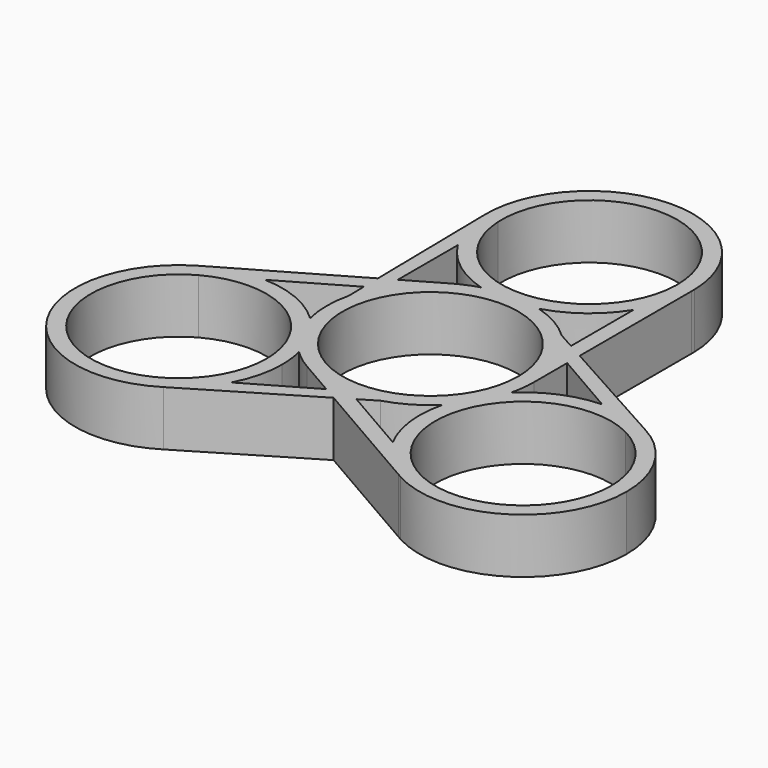
from build123d import *

# Parameters (mm, degrees)
F0_R     = 11.2
F1_DEPTH = 7


with BuildPart() as f1:
    # F0 (on Top) → F1 (new body)
    with BuildSketch(Plane.XY):
        with BuildLine():
            ThreePointArc((11.1960937773, 18.3612549308), (12.6514347683, 21.5874202803), (13.1972607258, 25.0843095102))
            Line((13.1972607258, 25.0843095102), (13.1972016792, 25.6249998472))
            ThreePointArc((13.1972016792, 25.6249998472), (-0.3668592076, 38.5481145369), (-13.1919155694, 24.8913004743))
            ThreePointArc((-13.1919155694, 24.8913004743), (-12.6206771495, 21.4855903841), (-11.1856658992, 18.3445846116))
            Line((-11.1856658992, 18.3445846116), (-11.1856658992, 24.7867521761))
            ThreePointArc((-11.1856658992, 24.7867521761), (-0.2833213093, 36.5496293654), (11.2, 25.353213464))
            ThreePointArc((11.2, 25.353213464), (11.1990234017, 25.2053119859), (11.1960937773, 25.0574363006))
            Line((11.1960937773, 25.0574363006), (11.1960937773, 18.3612549308))
        make_face()
        with BuildLine():
            ThreePointArc((-11.1856658992, 18.3445846116), (-12.6206771495, 21.4855903841), (-13.1919155694, 24.8913004743))
            Line((-13.1919155694, 24.8913004743), (-12.91669885, 7.7836678209))
            Line((-12.91669885, 7.7836678209), (-11.1856658992, 8.7833322288))
            Line((-11.1856658992, 8.7833322288), (-11.1856658992, 18.3445846116))
        make_face()
        with BuildLine():
            Line((11.1960937773, 8.4082804197), (13.1992034925, 7.2943554266))
            Line((13.1992034925, 7.2943554266), (13.1972607258, 25.0843095102))
            ThreePointArc((13.1972607258, 25.0843095102), (12.6514347683, 21.5874202803), (11.1960937773, 18.3612549308))
            Line((11.1960937773, 18.3612549308), (11.1960937773, 8.4082804197))
        make_face()
        with BuildLine():
            ThreePointArc((-3.6801687137, 12.676606732), (0, 12.153213464), (3.6801687137, 12.676606732))
            ThreePointArc((3.6801687137, 12.676606732), (0, 13.2), (-3.6801687137, 12.676606732))
        make_face()
        with BuildLine():
            ThreePointArc((-3.6801687137, 12.676606732), (0, 13.2), (3.6801687137, 12.676606732))
            ThreePointArc((3.6801687137, 12.676606732), (7.9627007172, 14.8253743083), (11.1960937773, 18.3612549308))
            Line((11.1960937773, 18.3612549308), (11.1960937773, 25.0574363006))
            ThreePointArc((11.1960937773, 25.0574363006), (0.1354424563, 14.154032452), (-11.1856658992, 24.7867521761))
            Line((-11.1856658992, 24.7867521761), (-11.1856658992, 18.3445846116))
            ThreePointArc((-11.1856658992, 18.3445846116), (-7.9548571952, 14.8194464738), (-3.6801687137, 12.676606732))
        make_face()
        with BuildLine():
            ThreePointArc((11.1960937773, 6.9919585332), (11.4364479512, 6.5914837677), (11.6624835815, 6.1827564008))
            Line((11.6624835815, 6.1827564008), (13.1994217896, 5.2954047126))
            Line((13.1994217896, 5.2954047126), (13.1992034925, 7.2943554266))
            Line((13.1992034925, 7.2943554266), (11.1960937773, 8.4082804197))
            Line((11.1960937773, 8.4082804197), (11.1960937773, 6.9919585332))
        make_face()
        with BuildLine():
            Line((13.1992034925, 7.2943554266), (13.1994217896, 5.2954047126))
            Line((13.1994217896, 5.2954047126), (21.4797092452, 0.5147785212))
            ThreePointArc((21.4797092452, 0.5147785212), (24.9174056627, 0.1870318324), (28.1524563287, -1.0211162295))
            Line((28.1524563287, -1.0211162295), (13.1992034925, 7.2943554266))
        make_face()
        with BuildLine():
            ThreePointArc((11.6624835815, 6.1827564008), (12.8098552544, 3.1855310958), (13.2, 0))
            Line((13.2000000787, 0), (13.1994217896, 5.2954047126))
            Line((13.1994217896, 5.2954047126), (11.6624835815, 6.1827564008))
        make_face()
        with BuildLine():
            ThreePointArc((-11.1856658992, 7.0086288524), (-9.1636784807, 9.5008945212), (-6.6, 11.43153533))
            Line((-6.6000000394, 11.4315353981), (-11.1856658992, 8.7833322288))
            Line((-11.1856658992, 8.7833322288), (-11.1856658992, 7.0086288524))
        make_face()
        with BuildLine():
            Line((-11.1856658992, 8.7833322288), (-12.91669885, 7.7836678209))
            Line((-12.91669885, 7.7836678209), (-12.8798313342, 5.4919614244))
            Line((-12.8798313342, 5.4919614244), (-11.6532606006, 6.2001223677))
            ThreePointArc((-11.6532606006, 6.2001223677), (-11.4266163671, 6.6085125709), (-11.1856658992, 7.0086288524))
            Line((-11.1856658992, 7.0086288524), (-11.1856658992, 8.7833322288))
        make_face()
        with BuildLine():
            Line((-12.8798313342, 5.4919614244), (-12.91669885, 7.7836678209))
            Line((-12.91669885, 7.7836678209), (-28.3222796351, -1.1129917062))
            ThreePointArc((-28.3222796351, -1.1129917062), (-25.020971749, 0.1627537636), (-21.4993601041, 0.5154741689))
            Line((-21.4993601041, 0.5154741689), (-12.8798313342, 5.4919614244))
        make_face()
        with BuildLine():
            ThreePointArc((-28.7905016793, -1.3833880105), (-33.2002168531, -19.5917666618), (-14.9605407593, -23.8701842448))
            ThreePointArc((-14.9605407593, -23.8701842448), (-12.2967285132, -21.6726222165), (-10.2940433459, -18.8593631328))
            Line((-10.2940433459, -18.8593631328), (-15.8731241122, -22.0804469151))
            ThreePointArc((-15.8731241122, -22.0804469151), (-31.5875809573, -18.393493846), (-27.2984232787, -2.832616516))
            Line((-27.2984232787, -2.832616516), (-21.4993601041, 0.5154741689))
            ThreePointArc((-21.4993601041, 0.5154741689), (-25.020971749, 0.1627537636), (-28.3222796351, -1.1129917062))
            Line((-28.3222796351, -1.1129917062), (-28.7905016793, -1.3833880105))
        make_face()
        with BuildLine():
            ThreePointArc((-8.7565269274, -12.676606732), (-8.8522873228, -11.0895010695), (-9.1381791068, -9.5254229623))
            ThreePointArc((-9.1381791068, -9.5254229623), (-11.43153533, -6.6), (-12.8183478206, -3.1511837697))
            ThreePointArc((-12.8183478206, -3.1511837697), (-16.8205011302, -0.5167860504), (-21.4993601041, 0.5154741689))
            Line((-21.4993601041, 0.5154741689), (-27.2984232787, -2.832616516))
            ThreePointArc((-27.2984232787, -2.832616516), (-16.2289287892, -3.0519187076), (-10.7565269274, -12.676606732))
            ThreePointArc((-10.7565269274, -12.676606732), (-12.1184856709, -18.0294512314), (-15.8731241122, -22.0804469151))
            Line((-15.8731241122, -22.0804469151), (-10.2940433459, -18.8593631328))
            ThreePointArc((-10.2940433459, -18.8593631328), (-9.1466716731, -15.8621378278), (-8.7565269274, -12.676606732))
        make_face()
        with BuildLine():
            Line((-2.0137558904, -14.0787369414), (-0.4768176823, -13.1913852532))
            ThreePointArc((-0.4768176823, -13.1913852532), (-3.6461767737, -12.686425617), (-6.6, -11.43153533))
            Line((-6.6000000394, -11.4315353981), (-2.0137558904, -14.0787369414))
        make_face()
        with BuildLine():
            ThreePointArc((12.8183478206, -3.1511837697), (13.1042396046, -1.5871056626), (13.2, 0))
            ThreePointArc((13.2, 0), (12.8098552544, 3.1855310958), (11.6624835815, 6.1827564008))
            ThreePointArc((11.6624835815, 6.1827564008), (11.4364479512, 6.5914837677), (11.1960937773, 6.9919585332))
            ThreePointArc((11.1960937773, 6.9919585332), (10.2157365995, 8.3593495997), (9.0694054488, 9.590927213))
            ThreePointArc((9.0694054488, 9.590927213), (6.5588310586, 11.4552055916), (3.6801687137, 12.676606732))
            ThreePointArc((3.6801687137, 12.676606732), (0, 12.153213464), (-3.6801687137, 12.676606732))
            ThreePointArc((-3.6801687137, 12.676606732), (-5.1776459801, 12.1421572262), (-6.6, 11.43153533))
            ThreePointArc((-6.6, 11.43153533), (-9.1636784807, 9.5008945212), (-11.1856658992, 7.0086288524))
            ThreePointArc((-11.1856658992, 7.0086288524), (-11.4266163671, 6.6085125709), (-11.6532606006, 6.2001223677))
            ThreePointArc((-11.6532606006, 6.2001223677), (-12.3472774122, 4.6674126137), (-12.8406893367, 3.0588719094))
            ThreePointArc((-12.8406893367, 3.0588719094), (-13.1999145772, -0.0474884799), (-12.8183478206, -3.1511837697))
            ThreePointArc((-12.8183478206, -3.1511837697), (-10.5249915975, -6.076606732), (-9.1381791068, -9.5254229623))
            ThreePointArc((-9.1381791068, -9.5254229623), (-7.9265936246, -10.5550515636), (-6.6, -11.43153533))
            ThreePointArc((-6.6, -11.43153533), (-3.6461767737, -12.686425617), (-0.4768176823, -13.1913852532))
            ThreePointArc((-0.4768176823, -13.1913852532), (-0.0098315841, -13.1999963386), (0.4571668233, -13.1920809009))
            ThreePointArc((0.4571668233, -13.1920809009), (2.1315408127, -13.0267622134), (3.7712838879, -12.6497991224))
            ThreePointArc((3.7712838879, -12.6497991224), (6.6410835186, -11.4077171117), (9.1381791068, -9.5254229623))
            ThreePointArc((9.1381791068, -9.5254229623), (10.5249915975, -6.076606732), (12.8183478206, -3.1511837697))
        make_face()
        Circle(F0_R, mode=Mode.SUBTRACT)
        with BuildLine():
            ThreePointArc((28.1524563287, -1.0211162295), (24.9174056627, 0.1870318324), (21.4797092452, 0.5147785212))
            Line((21.4797092452, 0.5147785212), (27.0587900115, -2.7063052611))
            ThreePointArc((27.0587900115, -2.7063052611), (31.5112468747, -6.8330353301), (33.1565269274, -12.676606732))
            ThreePointArc((33.1565269274, -12.676606732), (27.4279521909, -22.4491962346), (16.1023295014, -22.2248197846))
            Line((16.1023295014, -22.2248197846), (10.3032663268, -18.8767290997))
            ThreePointArc((10.3032663268, -18.8767290997), (12.369536981, -21.7501740441), (15.1250189101, -23.9713178044))
            Line((15.1250189101, -23.9713178044), (15.5933, -24.2416118367))
            ThreePointArc((15.5933, -24.2416118367), (28.6738703219, -24.0395859946), (35.1565269274, -12.676606732))
            ThreePointArc((35.1565269274, -12.676606732), (33.2708158599, -5.8775725395), (28.1524563287, -1.0211162295))
        make_face()
        with BuildLine():
            ThreePointArc((21.4797092452, 0.5147785212), (16.811445714, -0.5206148224), (12.8183478206, -3.1511837697))
            ThreePointArc((12.8183478206, -3.1511837697), (11.43153533, -6.6), (9.1381791068, -9.5254229623))
            ThreePointArc((9.1381791068, -9.5254229623), (8.857800413, -14.308588258), (10.3032663268, -18.8767290997))
            Line((10.3032663268, -18.8767290997), (16.1023295014, -22.2248197846))
            ThreePointArc((16.1023295014, -22.2248197846), (12.1900304413, -7.1943128339), (27.0587900115, -2.7063052611))
            Line((27.0587900115, -2.7063052611), (21.4797092452, 0.5147785212))
        make_face()
        with BuildLine():
            ThreePointArc((-12.8183478206, -3.1511837697), (-11.43153533, -6.6), (-9.1381791068, -9.5254229623))
            ThreePointArc((-9.1381791068, -9.5254229623), (-10.5249915975, -6.076606732), (-12.8183478206, -3.1511837697))
        make_face()
        with BuildLine():
            ThreePointArc((9.1381791068, -9.5254229623), (11.43153533, -6.6), (12.8183478206, -3.1511837697))
            ThreePointArc((12.8183478206, -3.1511837697), (10.5249915975, -6.076606732), (9.1381791068, -9.5254229623))
        make_face()
        with BuildLine():
            ThreePointArc((15.1250189101, -23.9713178044), (12.369536981, -21.7501740441), (10.3032663268, -18.8767290997))
            Line((10.3032663268, -18.8767290997), (1.6837375569, -13.9002418441))
            Line((1.6837375569, -13.9002418441), (-0.2825046426, -15.0780232476))
            Line((-0.2825046426, -15.0780232476), (15.1250189101, -23.9713178044))
        make_face()
        with BuildLine():
            Line((1.6837375569, -13.9002418441), (0.4571668233, -13.1920809009))
            ThreePointArc((0.4571668233, -13.1920809009), (-0.0098315841, -13.1999963386), (-0.4768176823, -13.1913852532))
            Line((-0.4768176823, -13.1913852532), (-2.0137558904, -14.0787369414))
            Line((-2.0137558904, -14.0787369414), (-0.2825046426, -15.0780232476))
            Line((-0.2825046426, -15.0780232476), (1.6837375569, -13.9002418441))
        make_face()
        with BuildLine():
            Line((-14.9605407593, -23.8701842448), (-0.2825046426, -15.0780232476))
            Line((-0.2825046426, -15.0780232476), (-2.0137558904, -14.0787369414))
            Line((-2.0137558904, -14.0787369414), (-10.2940433459, -18.8593631328))
            ThreePointArc((-10.2940433459, -18.8593631328), (-12.2967285132, -21.6726222165), (-14.9605407593, -23.8701842448))
        make_face()
        with BuildLine():
            Line((-11.6532606006, 6.2001223677), (-12.8798313342, 5.4919614244))
            Line((-12.8798313342, 5.4919614244), (-12.8406893367, 3.0588719094))
            ThreePointArc((-12.8406893367, 3.0588719094), (-12.3472774122, 4.6674126137), (-11.6532606006, 6.2001223677))
        make_face()
        with BuildLine():
            ThreePointArc((9.0694054488, 9.590927213), (10.2157365995, 8.3593495997), (11.1960937773, 6.9919585332))
            Line((11.1960937773, 6.9919585332), (11.1960937773, 8.4082804197))
            Line((11.1960937773, 8.4082804197), (9.0694054488, 9.590927213))
        make_face()
        with BuildLine():
            Line((1.6837375569, -13.9002418441), (3.7712838879, -12.6497991224))
            ThreePointArc((3.7712838879, -12.6497991224), (2.1315408127, -13.0267622134), (0.4571668233, -13.1920809009))
            Line((0.4571668233, -13.1920809009), (1.6837375569, -13.9002418441))
        make_face()
    extrude(amount=F1_DEPTH)


solid = f1.part
